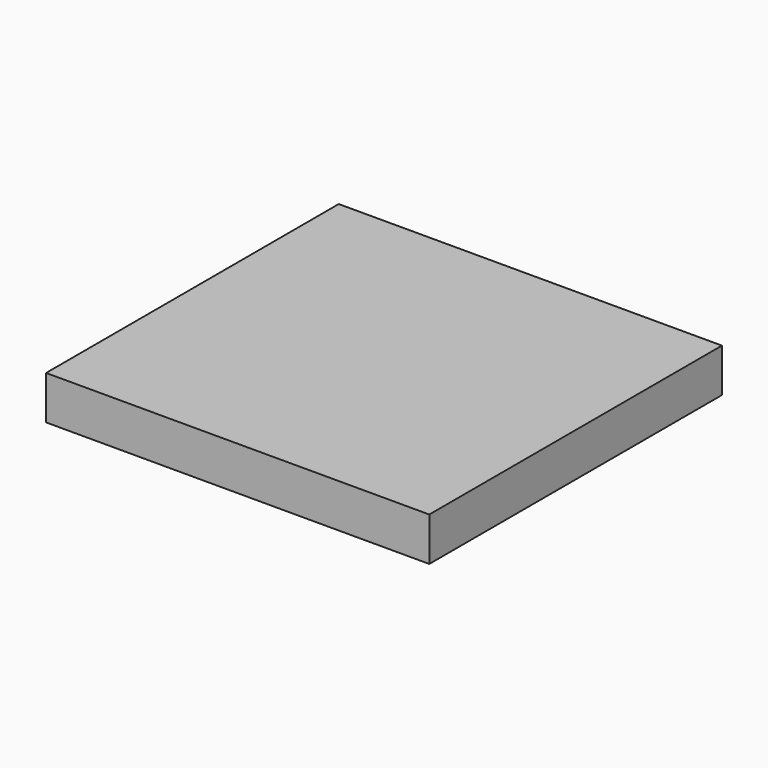
from build123d import *

# Parameters (mm, degrees)
F0_W     = 219.983712
F0_H     = 210
F1_DEPTH = 25
F2_W     = 168.755014
F2_H     = 180
F3_DEPTH = 8


with BuildPart() as f1:
    # F0 (on Top) → F1 (new body)
    with BuildSketch(Plane.XY):
        Rectangle(F0_W, F0_H)
    extrude(amount=F1_DEPTH)

    # F2 (on face) → F3 (cut)
    with BuildSketch(Plane.XY.offset(25)):
        Rectangle(F2_W, F2_H)
    extrude(amount=F3_DEPTH, mode=Mode.SUBTRACT)


solid = f1.part
